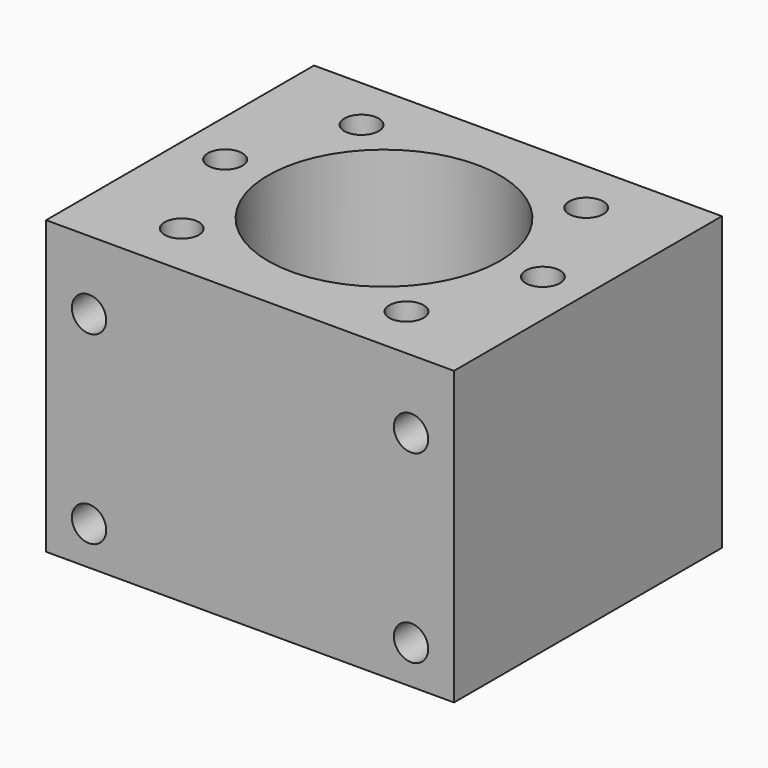
from build123d import *

# Parameters (mm, degrees)
SKETCH_W        = 47.5
SKETCH_H        = 39
PAD_DEPTH       = 34
SKETCH001_R     = 13.5
SKETCH001_R_2   = 2
POCKET_DEPTH    = 40
SKETCH002_R     = 2
POCKET001_DEPTH = 20


with BuildPart() as part:
    # Sketch → Pad (new body)
    with BuildSketch(Plane.XY):
        with Locations((0, 19.5)):
            Rectangle(SKETCH_W, SKETCH_H)
    extrude(amount=PAD_DEPTH)

    # Sketch001 → Pocket (cut)
    with BuildSketch(Plane.XY.offset(34)):
        with Locations((0, 19.5)):
            Circle(SKETCH001_R)
        with Locations((-18.5, 19.5)):
            Circle(SKETCH001_R_2)
        with Locations((18.5, 19.5)):
            Circle(SKETCH001_R_2)
        with Locations((13.081476, 6.418525)):
            Circle(SKETCH001_R_2)
        with Locations((13.081476, 32.581475)):
            Circle(SKETCH001_R_2)
        with Locations((-13.081476, 6.418525)):
            Circle(SKETCH001_R_2)
        with Locations((-13.081476, 32.581475)):
            Circle(SKETCH001_R_2)
    extrude(amount=-POCKET_DEPTH, mode=Mode.SUBTRACT)

    # Sketch002 → Pocket001 (cut)
    with BuildSketch(Plane.XZ):
        with Locations((18.75, 4.5)):
            Circle(SKETCH002_R)
        with Locations((-18.75, 4.5)):
            Circle(SKETCH002_R)
        with Locations((18.75, 26)):
            Circle(SKETCH002_R)
        with Locations((-18.75, 26)):
            Circle(SKETCH002_R)
    extrude(amount=-POCKET001_DEPTH, mode=Mode.SUBTRACT)


solid = part.part
